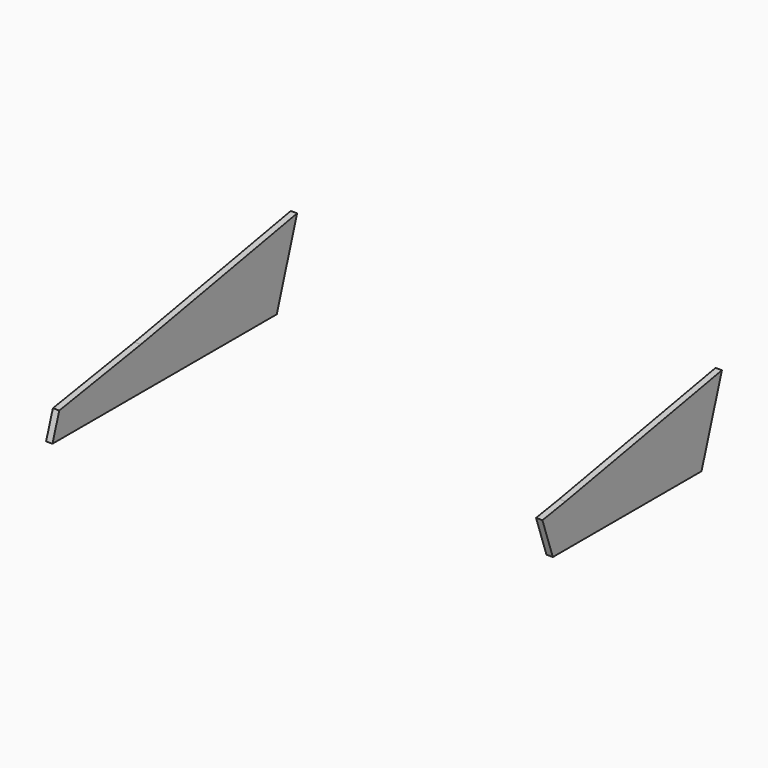
from build123d import *

# Parameters (mm, degrees)
F1_DEPTH = 19.05
F3_DEPTH = 19.05


with BuildPart() as f1:
    # F0 (on Right) → F1 (new body)
    with BuildSketch(Plane.YZ):
        Polygon((25.4, 77.178739), (0, 0), (838.2, 0), (914.4, 234.95), (330.2, 127), align=None)
    extrude(amount=F1_DEPTH)


with BuildPart() as f3:
    # F2 (on Right) → F3 (new body)
    with BuildSketch(Plane.YZ):
        Polygon((838.2, 0), (914.4, 234.95), (330.2, 127), (243.522572, 112.832091), (282.575, 0), align=None)
    extrude(amount=F3_DEPTH)


with BuildPart() as f1_1:
    # F5: moved
    add(f1.part.moved(Location((-1270, 0, 0))))


solid = Compound([f3.part, f1_1.part])
